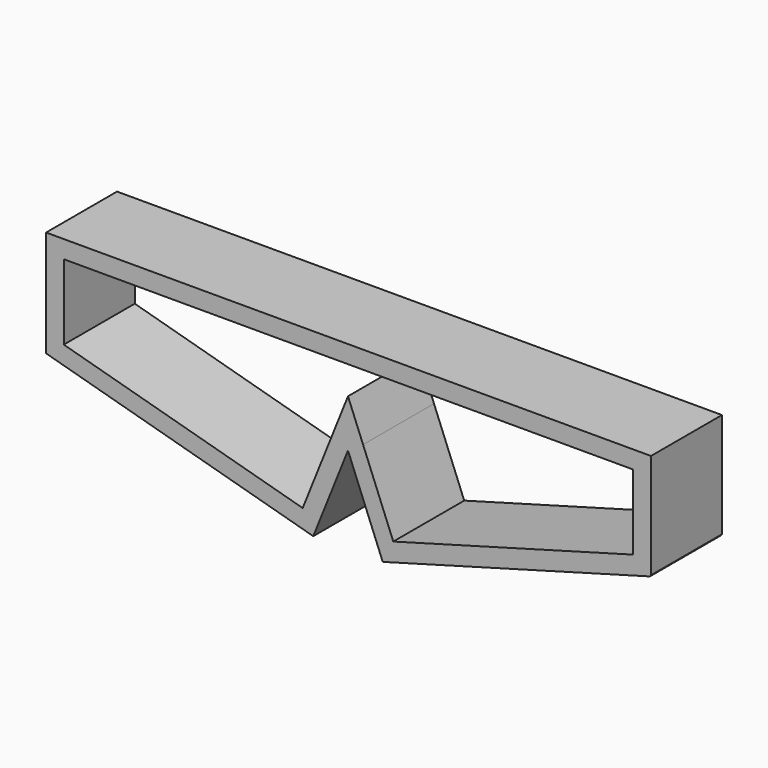
from build123d import *

# Parameters (mm, degrees)
F1_DEPTH = 25


with BuildPart() as f1:
    # F0 (on Front) → F1 (new body)
    with BuildSketch(Plane.XZ):
        Polygon((78.72085, 52.266717), (-6.27915, 52.266717), (-46.589765, 52.266717), (-48.77915, 52.266717), (-91.27915, 52.266717), (-91.27915, 22.266717), (-15.959248, 1.38831), (-6.166846, 25.853948), (3.485681, 1.737779), (3.685383, 1.328899), (3.988301, 1.488861), (78.945459, 22.266717), (79.253574, 22.671859), (79.253574, 52.266717), align=None)
        Polygon((74.253574, 26.154683), (6.604014, 7.402467), (-1.91518, 28.687084), (-6.166846, 39.309575), (-10.418511, 28.687084), (-18.937705, 7.402467), (-86.27915, 26.069274), (-86.27915, 47.266717), (-6.27915, 47.266717), (74.253574, 47.266717), align=None, mode=Mode.SUBTRACT)
    extrude(amount=F1_DEPTH)


solid = f1.part
